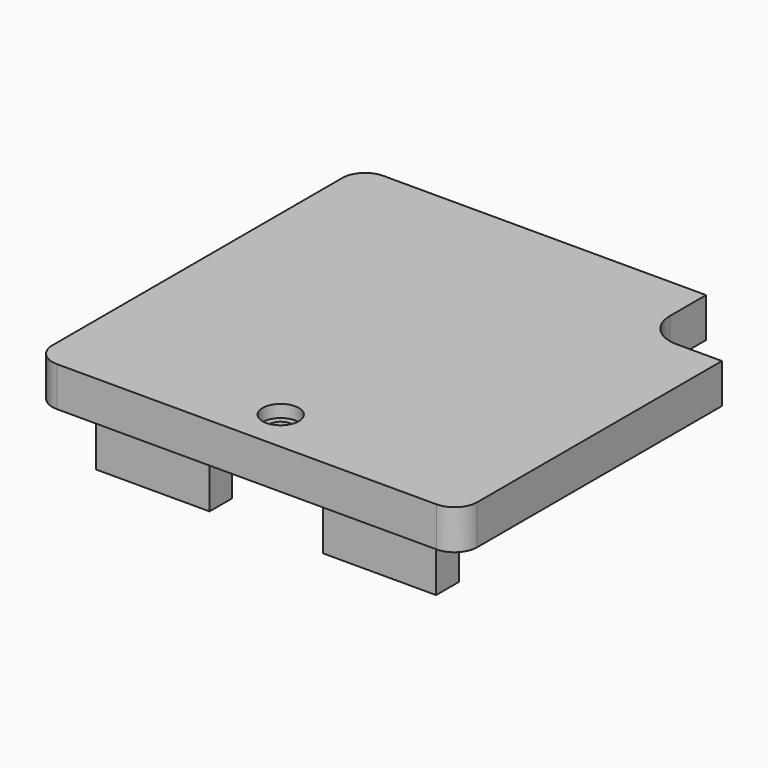
from build123d import *

# Parameters (mm, degrees)
SKETCH_W        = 37.5
SKETCH_H        = 36
PAD_DEPTH       = 3.5
SKETCH001_R     = 1.05
POCKET_DEPTH    = 5
SKETCH002_R     = 1.6
POCKET001_DEPTH = 1.1
SKETCH003_W     = 10
SKETCH003_H     = 2.5
PAD001_DEPTH    = 5
SKETCH004_W     = 20
SKETCH004_H     = 2.5
PAD002_DEPTH    = 5
SKETCH005_W     = 7
SKETCH005_H     = 7
POCKET002_DEPTH = 5
FILLET_R        = 3
FILLET001_R     = 2


with BuildPart() as part:
    # Sketch → Pad (new body)
    with BuildSketch(Plane.XY):
        Rectangle(SKETCH_W, SKETCH_H)
    extrude(amount=PAD_DEPTH)

    # Sketch001 (on Face6 of Pad) → Pocket (cut)
    with BuildSketch(Plane.XY.offset(3.5)):
        with Locations((0, -14.25)):
            Circle(SKETCH001_R)
    extrude(amount=-POCKET_DEPTH, mode=Mode.SUBTRACT)

    # Sketch002 (on Face5 of Pocket) → Pocket001 (cut)
    with BuildSketch(Plane.XY.offset(3.5)):
        with Locations((0, -14.25)):
            Circle(SKETCH002_R)
    extrude(amount=-POCKET001_DEPTH, mode=Mode.SUBTRACT)

    # Sketch003 (on Face4 of Pocket001) → Pad001 (join)
    with BuildSketch(Plane(origin=(0, 0, 0), x_dir=(1, 0, 0), z_dir=(0, 0, -1))):
        with Locations((-10, 14.6)):
            Rectangle(SKETCH003_W, SKETCH003_H)
        with Locations((10, 14.6)):
            Rectangle(SKETCH003_W, SKETCH003_H)
    extrude(amount=PAD001_DEPTH)

    # Sketch004 (on Face4 of Pad001) → Pad002 (join)
    with BuildSketch(Plane(origin=(0, 0, 0), x_dir=(1, 0, 0), z_dir=(0, 0, -1))):
        with Locations((-4.75, -14.6)):
            Rectangle(SKETCH004_W, SKETCH004_H)
    extrude(amount=PAD002_DEPTH)

    # Sketch005 (on Face4 of Pad002) → Pocket002 (cut)
    with BuildSketch(Plane(origin=(0, 0, 0), x_dir=(1, 0, 0), z_dir=(0, 0, -1))):
        with Locations((15.25, -14.5)):
            Rectangle(SKETCH005_W, SKETCH005_H)
    extrude(amount=-POCKET002_DEPTH, mode=Mode.SUBTRACT)

    # Fillet
    fillet_edges = [part.edges().sort_by_distance(p)[0] for p in [
        (11.75, 11, 1.75),
    ]]
    fillet(fillet_edges, radius=FILLET_R)

    # Fillet001
    fillet001_edges = [part.edges().sort_by_distance(p)[0] for p in [
        (18.75, -18, 1.75),
        (-18.75, 18, 1.75),
        (-18.75, -18, 1.75),
    ]]
    fillet(fillet001_edges, radius=FILLET001_R)


solid = part.part
